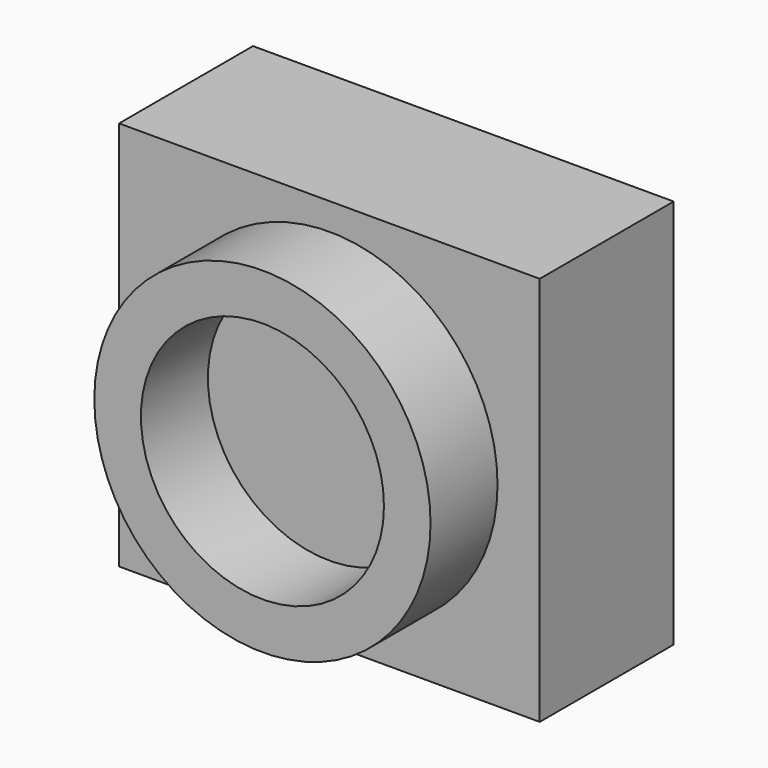
from build123d import *

# Parameters (mm, degrees)
F0_W     = 125.638232
F0_H     = 116.504982
F1_DEPTH = 50
F2_R     = 50.209764
F2_R_2   = 36.290229
F3_DEPTH = 25


with BuildPart() as f1:
    # F0 (on Front) → F1 (new body)
    with BuildSketch(Plane.XZ):
        Rectangle(F0_W, F0_H)
    extrude(amount=F1_DEPTH)

    # F2 (on face) → F3 (join)
    with BuildSketch(Plane.XZ.offset(50)):
        Circle(F2_R)
        Circle(F2_R_2, mode=Mode.SUBTRACT)
    extrude(amount=F3_DEPTH)


solid = f1.part
